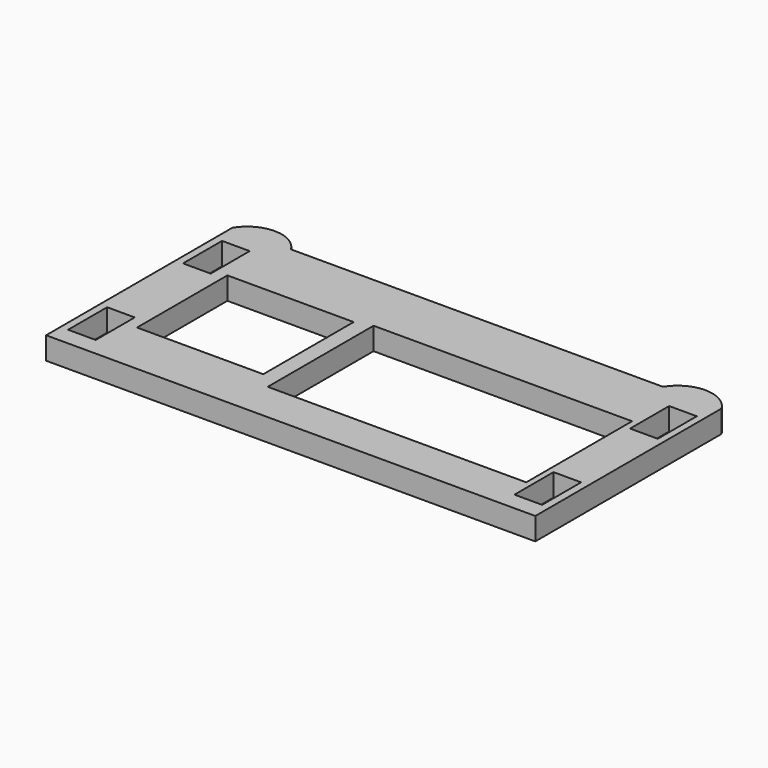
from build123d import *

# Parameters (mm, degrees)
F0_W     = 3.7
F0_H     = 6.53
F0_W_2   = 16.9
F0_H_2   = 15.12
F0_W_3   = 34.6
F0_H_3   = 17.7038
F1_DEPTH = 3


with BuildPart() as f1:
    # F0 (on Top) → F1 (new body)
    with BuildSketch(Plane.XY):
        with BuildLine():
            Line((-28.684194, 9.618534), (-28.684194, -21.551466))
            Line((-28.684194, -21.551466), (36.795806, -21.551466))
            Line((36.795806, -21.551466), (36.795806, 9.618534))
            ThreePointArc((36.795806, 9.618534), (32.870806, 11.798534), (28.945806, 9.618534))
            Line((28.945806, 9.618534), (-20.834194, 9.618534))
            ThreePointArc((-20.834194, 9.618534), (-24.759194, 11.798534), (-28.684194, 9.618534))
        make_face()
        with Locations((-25.818194, -15.876466)):
            Rectangle(F0_W, F0_H, mode=Mode.SUBTRACT)
        with Locations((-13.904194, -6.691466)):
            Rectangle(F0_W_2, F0_H_2, mode=Mode.SUBTRACT)
        with Locations((33.929806, -15.876466)):
            Rectangle(F0_W, F0_H, mode=Mode.SUBTRACT)
        with Locations((13.995806, -7.340166)):
            Rectangle(F0_W_3, F0_H_3, mode=Mode.SUBTRACT)
        with Locations((-25.818194, 3.353534)):
            Rectangle(F0_W, F0_H, mode=Mode.SUBTRACT)
        with Locations((34.022406, 3.353534)):
            Rectangle(F0_W, F0_H, mode=Mode.SUBTRACT)
    extrude(amount=F1_DEPTH)


solid = f1.part
